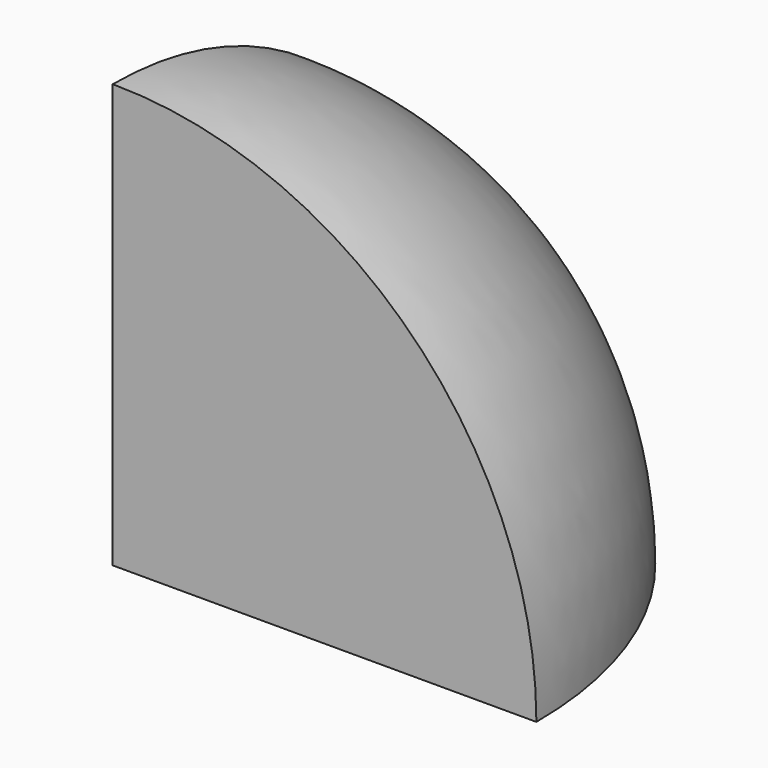
from build123d import *

# Parameters (mm, degrees)
F1_ANGLE = -90


with BuildPart() as f1:
    # F0 (on Top) → F1 (revolve)
    with BuildSketch(Plane.XY):
        with BuildLine():
            Line((-150, -150), (140, -150))
            ThreePointArc((140, -150), (55.060967, 55.060967), (-150, 140))
            Line((-150, 140), (-150, -150))
        make_face()
    revolve(axis=Axis((-150, 0, 0), (0, 1, 0)), revolution_arc=F1_ANGLE)


solid = f1.part
